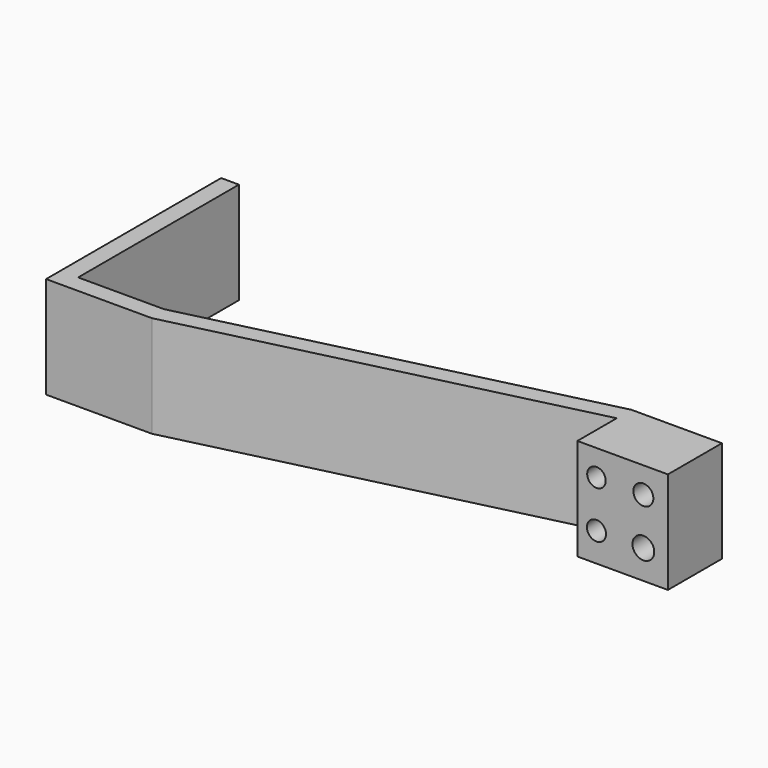
from build123d import *

# Parameters (mm, degrees)
F1_DEPTH = 20.32
F2_R     = 1.852076
F2_R_2   = 1.994301
F2_R_3   = 2.175153
F2_R_4   = 1.903258
F3_DEPTH = 34.624126


with BuildPart() as f1:
    # F0 (on Top) → F1 (new body)
    with BuildSketch(Plane.XY):
        Polygon((24.966674, 8.57918), (6.889115, 8.57918), (6.889115, 4.919581), (6.889115, -4.902392), (24.966674, -4.902392), align=None)
        Polygon((-88.401087, -10.417581), (-88.401087, 29.720735), (-91.957087, 29.720735), (-91.957087, -13.973581), (-70.816636, -13.973581), (6.889115, 4.919581), (6.889115, 8.57918), (-71.242727, -10.417581), align=None)
    extrude(amount=F1_DEPTH)

    # F2 (on face) → F3 (cut, through all)
    with BuildSketch(Plane.XZ.offset(4.902392)):
        with Locations((10.699325, 15.145381)):
            Circle(F2_R)
        with Locations((20.062117, 15.145381)):
            Circle(F2_R_2)
        with Locations((20.062117, 5.782592)):
            Circle(F2_R_3)
        with Locations((10.699325, 5.782592)):
            Circle(F2_R_4)
    extrude(amount=-F3_DEPTH, mode=Mode.SUBTRACT)


solid = f1.part
